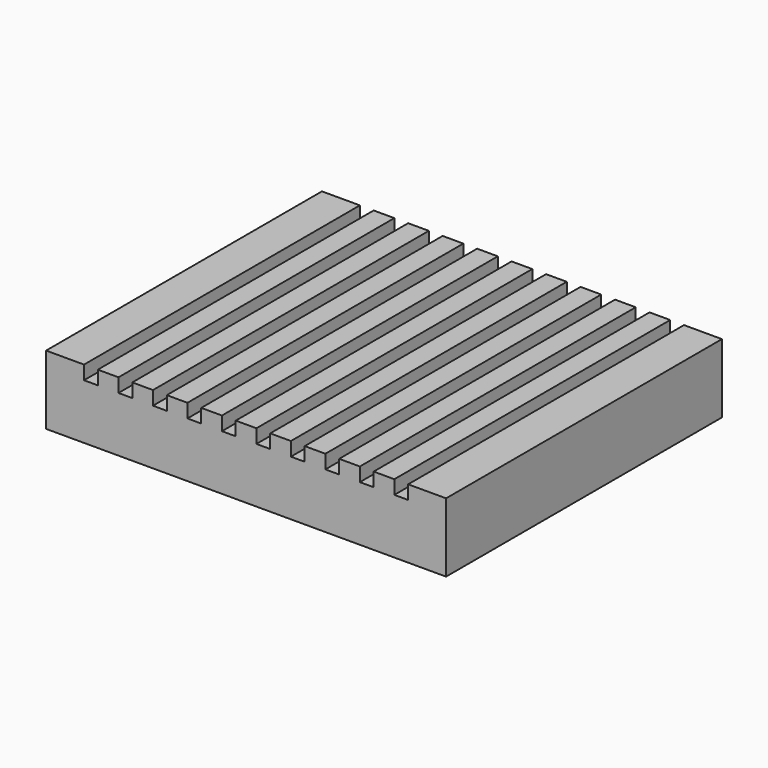
from build123d import *

# Parameters (mm, degrees)
F0_W     = 5.5
F0_H     = 50
F0_W_2   = 2
F0_W_3   = 3
F1_DEPTH = 10
F2_DEPTH = 2


with BuildPart() as f1:
    # F0 (on Top) → F1 (new body)
    with BuildSketch(Plane.XY):
        with Locations((26.25, 0)):
            Rectangle(F0_W, F0_H)
        with Locations((22.5, 0)):
            Rectangle(F0_W_2, F0_H)
        with Locations((20, 0)):
            Rectangle(F0_W_3, F0_H)
        with Locations((17.5, 0)):
            Rectangle(F0_W_2, F0_H)
        with Locations((15, 0)):
            Rectangle(F0_W_3, F0_H)
        with Locations((12.5, 0)):
            Rectangle(F0_W_2, F0_H)
        with Locations((10, 0)):
            Rectangle(F0_W_3, F0_H)
        with Locations((7.5, 0)):
            Rectangle(F0_W_2, F0_H)
        with Locations((5, 0)):
            Rectangle(F0_W_3, F0_H)
        with Locations((2.5, 0)):
            Rectangle(F0_W_2, F0_H)
        Rectangle(F0_W_3, F0_H)
        with Locations((-2.5, 0)):
            Rectangle(F0_W_2, F0_H)
        with Locations((-5, 0)):
            Rectangle(F0_W_3, F0_H)
        with Locations((-7.5, 0)):
            Rectangle(F0_W_2, F0_H)
        with Locations((-10, 0)):
            Rectangle(F0_W_3, F0_H)
        with Locations((-12.5, 0)):
            Rectangle(F0_W_2, F0_H)
        with Locations((-15, 0)):
            Rectangle(F0_W_3, F0_H)
        with Locations((-17.5, 0)):
            Rectangle(F0_W_2, F0_H)
        with Locations((-20, 0)):
            Rectangle(F0_W_3, F0_H)
        with Locations((-22.5, 0)):
            Rectangle(F0_W_2, F0_H)
        with Locations((-26.25, 0)):
            Rectangle(F0_W, F0_H)
    extrude(amount=-F1_DEPTH)

    # F0 (on Top) → F2 (cut)
    with BuildSketch(Plane.XY):
        with Locations((-22.5, 0)):
            Rectangle(F0_W_2, F0_H)
        with Locations((-17.5, 0)):
            Rectangle(F0_W_2, F0_H)
        with Locations((-12.5, 0)):
            Rectangle(F0_W_2, F0_H)
        with Locations((-7.5, 0)):
            Rectangle(F0_W_2, F0_H)
        with Locations((-2.5, 0)):
            Rectangle(F0_W_2, F0_H)
        with Locations((2.5, 0)):
            Rectangle(F0_W_2, F0_H)
        with Locations((7.5, 0)):
            Rectangle(F0_W_2, F0_H)
        with Locations((12.5, 0)):
            Rectangle(F0_W_2, F0_H)
        with Locations((17.5, 0)):
            Rectangle(F0_W_2, F0_H)
        with Locations((22.5, 0)):
            Rectangle(F0_W_2, F0_H)
    extrude(amount=-F2_DEPTH, mode=Mode.SUBTRACT)


solid = f1.part
